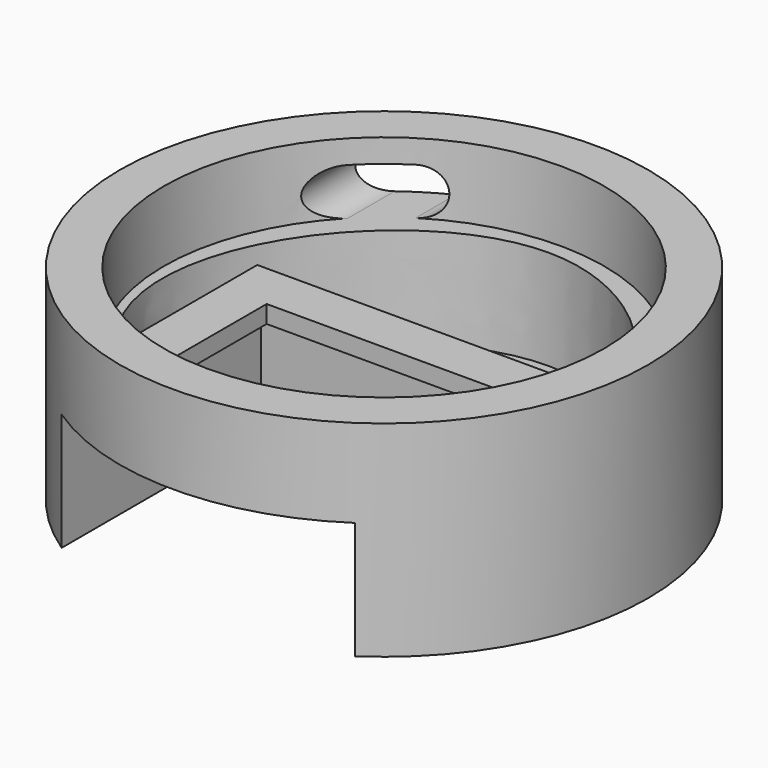
from build123d import *

# Parameters (mm, degrees)
CYLINDER_R      = 45
CYLINDER_DEPTH  = 35
SKETCH_R        = 37.5
POCKET_DEPTH    = 12
SKETCH001_W     = 50
SKETCH001_H     = 75
POCKET001_DEPTH = 20
SKETCH002_W     = 40
SKETCH002_H     = 30
POCKET002_DEPTH = 5
POCKET003_DEPTH = 17
POCKET004_DEPTH = 50


with BuildPart() as part:
    # Cylinder → Cylinder (join)
    with BuildSketch(Plane.XY):
        Circle(CYLINDER_R)
    extrude(amount=CYLINDER_DEPTH)

    # Sketch (on Face3 of Cylinder) → Pocket (cut)
    with BuildSketch(Plane.XY.offset(35)):
        Circle(SKETCH_R)
    extrude(amount=-POCKET_DEPTH, mode=Mode.SUBTRACT)

    # Sketch001 (on Face2 of Pocket) → Pocket001 (cut)
    with BuildSketch(Plane(origin=(0, 0, 0), x_dir=(1, 0, 0), z_dir=(0, 0, -1))):
        with Locations((0, 32.5)):
            Rectangle(SKETCH001_W, SKETCH001_H)
    extrude(amount=-POCKET001_DEPTH, mode=Mode.SUBTRACT)

    # Sketch002 (on Face4 of Pocket001) → Pocket002 (cut)
    with BuildSketch(Plane(origin=(0, 0, 20), x_dir=(1, 0, 0), z_dir=(0, 0, -1))):
        with Locations((0, 15)):
            Rectangle(SKETCH002_W, SKETCH002_H)
    extrude(amount=-POCKET002_DEPTH, mode=Mode.SUBTRACT)

    # Sketch003 (on Face13 of Pocket002) → Pocket003 (cut)
    with BuildSketch(Plane.XY.offset(23)):
        with BuildLine():
            Line((28, -22), (28, 8))
            Line((28, 8), (-28, 8))
            Line((-28, 8), (-28, -22))
            add(Edge.make_bspline(
                [(-28, -22), (-48, 0), (0, 70), (48, 0), (28, -22)],
                knots=[0, 0, 0, 0, 0.5, 1, 1, 1, 1], degree=3))
        make_face()
    extrude(amount=-POCKET003_DEPTH, mode=Mode.SUBTRACT)

    # Sketch004 (on DatumPlane) → Pocket004 (cut)
    with BuildSketch(Plane.XZ.offset(-5)):
        with BuildLine():
            ThreePointArc((-27, 31), (-31, 27), (-27, 23))
            Line((-27, 23), (-20, 23))
            ThreePointArc((-20, 23), (-16, 27), (-20, 31))
            Line((-20, 31), (-27, 31))
        make_face()
    extrude(amount=-POCKET004_DEPTH, mode=Mode.SUBTRACT)


solid = part.part
